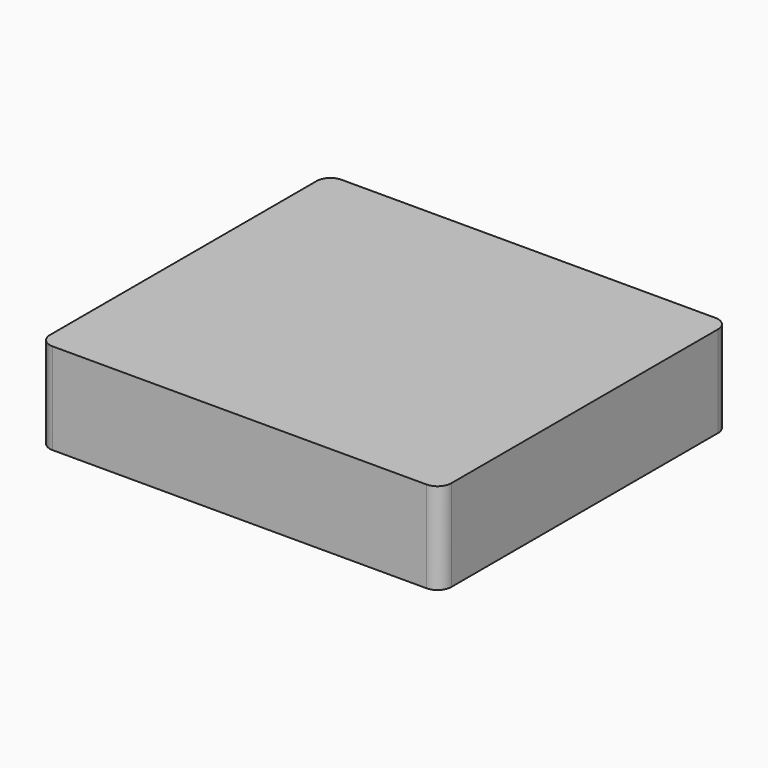
from build123d import *

# Parameters (mm, degrees)
F0_W     = 87.854154
F0_H     = 79.009854
F1_DEPTH = 20.0025
F2_R     = 2.99974
F3_R     = 2.99974


with BuildPart() as f1:
    # F0 (on Top) → F1 (new body)
    with BuildSketch(Plane.XY):
        Rectangle(F0_W, F0_H)
    extrude(amount=F1_DEPTH)

    # F2
    f2_edges = [f1.edges().sort_by_distance(p)[0] for p in [
        (-43.927077, -39.504927, 10.00125),
        (43.927077, -39.504927, 10.00125),
        (43.927077, 39.504927, 10.00125),
    ]]
    fillet(f2_edges, radius=F2_R)

    # F3
    f3_edges = [f1.edges().sort_by_distance(p)[0] for p in [
        (-43.927077, 39.504927, 10.00125),
    ]]
    fillet(f3_edges, radius=F3_R)


solid = f1.part
